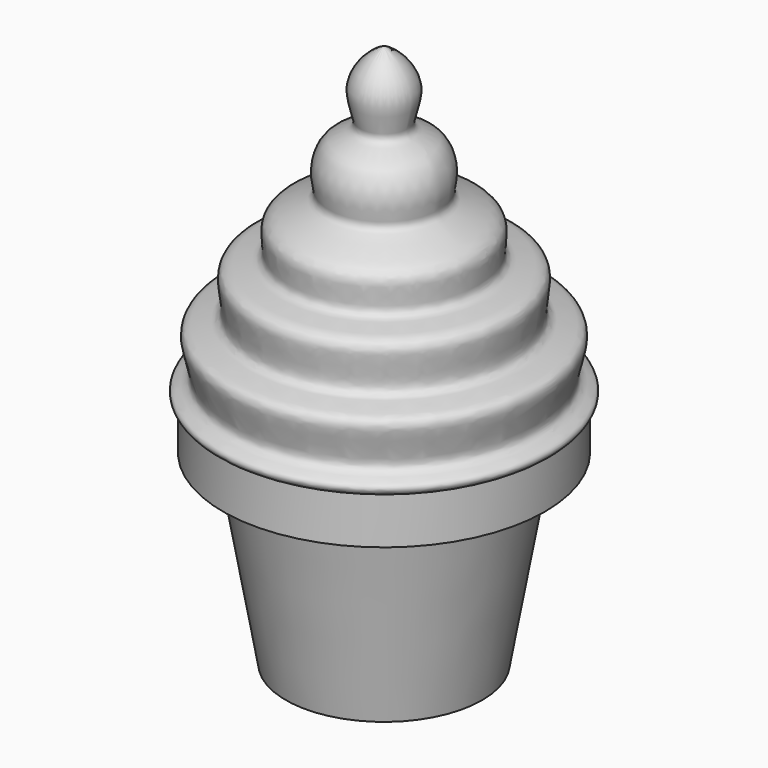
from build123d import *


with BuildPart() as f1:
    # F0 (on Front) → F1 (revolve)
    with BuildSketch(Plane.XZ):
        with BuildLine():
            Line((0, 70), (0, 30))
            Line((0, 30), (20.7333832075, 30))
            add(Edge.make_bspline(
                [(0, 70), (1.5095974914, 69.513057022), (5.3107493885, 65.7728056325), (1.7669775661, 60.4534086569), (6.6602316815, 60.0336213053), (7.7802664916, 55.3144961662), (6.2605470412, 52.3160201103), (13.9334081274, 51.1892912019), (10.7529181674, 44.8591977284), (18.5389184703, 46.166249677), (14.5758730499, 37.978908857), (22.4180108488, 39.3661219946), (18.1516703616, 31.9592137282), (21.8652165807, 31.6898312182), (21.5750738148, 30.4414973818), (20.7333832075, 30)],
                knots=[0, 0, 0, 0, 0.0944729971, 0.1769886395, 0.2470623593, 0.3283783724, 0.3885476992, 0.4795090348, 0.5581262281, 0.6381852307, 0.7274264766, 0.8049039576, 0.8951167953, 0.9523966423, 1, 1, 1, 1], degree=3))
        make_face()
        Polygon((0, 30), (0, 0), (12.6493493593, 0), (16.8811968963, 24), (20.7333832075, 24), (20.7333832075, 30), align=None)
    revolve(axis=Axis((0, 0, 35), (0, 0, 1)))


solid = f1.part
